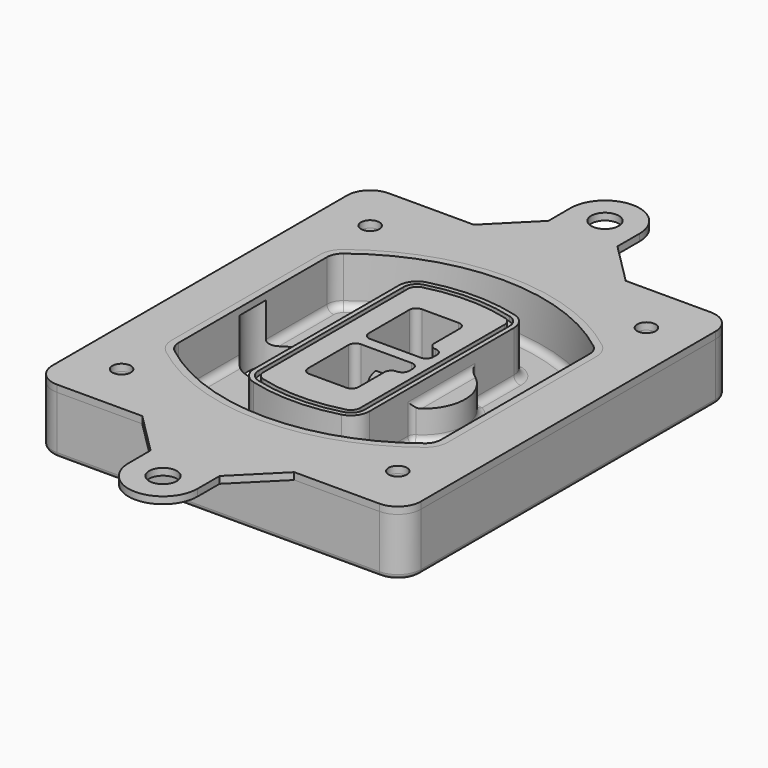
from build123d import *

# Parameters (mm, degrees)
F0_R      = 4
F1_DEPTH  = 25
F2_DEPTH  = 3
F3_DEPTH  = 18
F5_DEPTH  = 21
F6_DEPTH  = 2
F8_DEPTH  = 20
F9_DEPTH  = 16
F10_DEPTH = 25
F7_R      = 6
F7_R_2    = 4
F11_DEPTH = 6
F13_DEPTH = 9
F14_R     = 3
F15_R     = 2
F16_R     = 6
F16_R_2   = 4
F17_DEPTH = 3


with BuildPart() as f1:
    # F0 (on Top) → F1 (new body)
    with BuildSketch(Plane.XY):
        with BuildLine():
            ThreePointArc((-80, -80), (-77.0710678119, -87.0710678119), (-70, -90))
            Line((-70, -90), (70, -90))
            ThreePointArc((70, -90), (77.0710678119, -87.0710678119), (80, -80))
            Line((80, -80), (80, 80))
            ThreePointArc((80, 80), (77.0710678119, 87.0710678119), (70, 90))
            Line((70, 90), (-70, 90))
            ThreePointArc((-70, 90), (-77.0710678119, 87.0710678119), (-80, 80))
            Line((-80, 80), (-80, -80))
        make_face()
        with Locations((-60, -67.5)):
            Circle(F0_R, mode=Mode.SUBTRACT)
        with Locations((60, -67.5)):
            Circle(F0_R, mode=Mode.SUBTRACT)
        with Locations((-60, 67.5)):
            Circle(F0_R, mode=Mode.SUBTRACT)
        with BuildLine():
            ThreePointArc((-64, 40.2934422872), (-62.5820384798, 46.4328484224), (-58.6153846154, 51.3286200352))
            ThreePointArc((-58.6153846154, 51.3286200352), (0, 71.5), (58.6153846154, 51.3286200352))
            ThreePointArc((58.6153846154, 51.3286200352), (62.5820384798, 46.4328484224), (64, 40.2934422872))
            Line((64, 40.2934422872), (64, -40.2934422872))
            ThreePointArc((64, -40.2934422872), (62.5820384798, -46.4328484224), (58.6153846154, -51.3286200352))
            ThreePointArc((58.6153846154, -51.3286200352), (0, -71.5), (-58.6153846154, -51.3286200352))
            ThreePointArc((-58.6153846154, -51.3286200352), (-62.5820384798, -46.4328484224), (-64, -40.2934422872))
            Line((-64, -40.2934422872), (-64, 40.2934422872))
        make_face(mode=Mode.SUBTRACT)
        with Locations((60, 67.5)):
            Circle(F0_R, mode=Mode.SUBTRACT)
        with BuildLine():
            ThreePointArc((58.6153846154, 51.3286200352), (0, 71.5), (-58.6153846154, 51.3286200352))
            ThreePointArc((-58.6153846154, 51.3286200352), (-62.5820384798, 46.4328484224), (-64, 40.2934422872))
            Line((-64, 40.2934422872), (-64, -40.2934422872))
            ThreePointArc((-64, -40.2934422872), (-62.5820384798, -46.4328484224), (-58.6153846154, -51.3286200352))
            ThreePointArc((-58.6153846154, -51.3286200352), (0, -71.5), (58.6153846154, -51.3286200352))
            ThreePointArc((58.6153846154, -51.3286200352), (62.5820384798, -46.4328484224), (64, -40.2934422872))
            Line((64, -40.2934422872), (64, 40.2934422872))
            ThreePointArc((64, 40.2934422872), (62.5820384798, 46.4328484224), (58.6153846154, 51.3286200352))
        make_face()
        with BuildLine():
            Line((-60, -40.2934422872), (-60, 40.2934422872))
            ThreePointArc((-60, 40.2934422872), (-58.9871703427, 44.6787323838), (-56.1538461538, 48.1757121072))
            ThreePointArc((-56.1538461538, 48.1757121072), (0, 67.5), (56.1538461538, 48.1757121072))
            ThreePointArc((56.1538461538, 48.1757121072), (58.9871703427, 44.6787323838), (60, 40.2934422872))
            Line((60, 40.2934422872), (60, -40.2934422872))
            ThreePointArc((60, -40.2934422872), (58.9871703427, -44.6787323838), (56.1538461538, -48.1757121072))
            ThreePointArc((56.1538461538, -48.1757121072), (0, -67.5), (-56.1538461538, -48.1757121072))
            ThreePointArc((-56.1538461538, -48.1757121072), (-58.9871703427, -44.6787323838), (-60, -40.2934422872))
        make_face(mode=Mode.SUBTRACT)
        with BuildLine():
            ThreePointArc((-56.1538461538, 48.1757121072), (-58.9871703427, 44.6787323838), (-60, 40.2934422872))
            Line((-60, 40.2934422872), (-60, -40.2934422872))
            ThreePointArc((-60, -40.2934422872), (-58.9871703427, -44.6787323838), (-56.1538461538, -48.1757121072))
            ThreePointArc((-56.1538461538, -48.1757121072), (0, -67.5), (56.1538461538, -48.1757121072))
            ThreePointArc((56.1538461538, -48.1757121072), (58.9871703427, -44.6787323838), (60, -40.2934422872))
            Line((60, -40.2934422872), (60, 40.2934422872))
            ThreePointArc((60, 40.2934422872), (58.9871703427, 44.6787323838), (56.1538461538, 48.1757121072))
            ThreePointArc((56.1538461538, 48.1757121072), (0, 67.5), (-56.1538461538, 48.1757121072))
        make_face()
        with BuildLine():
            ThreePointArc((54.3076923077, 45.8110311612), (56.2910192399, 43.3631453548), (57, 40.2934422872))
            Line((57, 40.2934422872), (57, -40.2934422872))
            ThreePointArc((57, -40.2934422872), (56.2910192399, -43.3631453548), (54.3076923077, -45.8110311612))
            ThreePointArc((54.3076923077, -45.8110311612), (0, -64.5), (-54.3076923077, -45.8110311612))
            ThreePointArc((-54.3076923077, -45.8110311612), (-56.2910192399, -43.3631453548), (-57, -40.2934422872))
            Line((-57, -40.2934422872), (-57, 40.2934422872))
            ThreePointArc((-57, 40.2934422872), (-56.2910192399, 43.3631453548), (-54.3076923077, 45.8110311612))
            ThreePointArc((-54.3076923077, 45.8110311612), (0, 64.5), (54.3076923077, 45.8110311612))
        make_face(mode=Mode.SUBTRACT)
        with BuildLine():
            Line((57, -40.2934422872), (57, 40.2934422872))
            ThreePointArc((57, 40.2934422872), (56.2910192399, 43.3631453548), (54.3076923077, 45.8110311612))
            ThreePointArc((54.3076923077, 45.8110311612), (0, 64.5), (-54.3076923077, 45.8110311612))
            ThreePointArc((-54.3076923077, 45.8110311612), (-56.2910192399, 43.3631453548), (-57, 40.2934422872))
            Line((-57, 40.2934422872), (-57, -40.2934422872))
            ThreePointArc((-57, -40.2934422872), (-56.2910192399, -43.3631453548), (-54.3076923077, -45.8110311612))
            ThreePointArc((-54.3076923077, -45.8110311612), (0, -64.5), (54.3076923077, -45.8110311612))
            ThreePointArc((54.3076923077, -45.8110311612), (56.2910192399, -43.3631453548), (57, -40.2934422872))
        make_face()
    extrude(amount=-F1_DEPTH)

    # F0 (on Top) → F2 (join)
    with BuildSketch(Plane.XY):
        with BuildLine():
            ThreePointArc((-56.1538461538, 48.1757121072), (-58.9871703427, 44.6787323838), (-60, 40.2934422872))
            Line((-60, 40.2934422872), (-60, -40.2934422872))
            ThreePointArc((-60, -40.2934422872), (-58.9871703427, -44.6787323838), (-56.1538461538, -48.1757121072))
            ThreePointArc((-56.1538461538, -48.1757121072), (0, -67.5), (56.1538461538, -48.1757121072))
            ThreePointArc((56.1538461538, -48.1757121072), (58.9871703427, -44.6787323838), (60, -40.2934422872))
            Line((60, -40.2934422872), (60, 40.2934422872))
            ThreePointArc((60, 40.2934422872), (58.9871703427, 44.6787323838), (56.1538461538, 48.1757121072))
            ThreePointArc((56.1538461538, 48.1757121072), (0, 67.5), (-56.1538461538, 48.1757121072))
        make_face()
        with BuildLine():
            ThreePointArc((54.3076923077, 45.8110311612), (56.2910192399, 43.3631453548), (57, 40.2934422872))
            Line((57, 40.2934422872), (57, -40.2934422872))
            ThreePointArc((57, -40.2934422872), (56.2910192399, -43.3631453548), (54.3076923077, -45.8110311612))
            ThreePointArc((54.3076923077, -45.8110311612), (0, -64.5), (-54.3076923077, -45.8110311612))
            ThreePointArc((-54.3076923077, -45.8110311612), (-56.2910192399, -43.3631453548), (-57, -40.2934422872))
            Line((-57, -40.2934422872), (-57, 40.2934422872))
            ThreePointArc((-57, 40.2934422872), (-56.2910192399, 43.3631453548), (-54.3076923077, 45.8110311612))
            ThreePointArc((-54.3076923077, 45.8110311612), (0, 64.5), (54.3076923077, 45.8110311612))
        make_face(mode=Mode.SUBTRACT)
    extrude(amount=F2_DEPTH)

    # F0 (on Top) → F3 (cut)
    with BuildSketch(Plane.XY):
        with BuildLine():
            Line((57, -40.2934422872), (57, 40.2934422872))
            ThreePointArc((57, 40.2934422872), (56.2910192399, 43.3631453548), (54.3076923077, 45.8110311612))
            ThreePointArc((54.3076923077, 45.8110311612), (0, 64.5), (-54.3076923077, 45.8110311612))
            ThreePointArc((-54.3076923077, 45.8110311612), (-56.2910192399, 43.3631453548), (-57, 40.2934422872))
            Line((-57, 40.2934422872), (-57, -40.2934422872))
            ThreePointArc((-57, -40.2934422872), (-56.2910192399, -43.3631453548), (-54.3076923077, -45.8110311612))
            ThreePointArc((-54.3076923077, -45.8110311612), (0, -64.5), (54.3076923077, -45.8110311612))
            ThreePointArc((54.3076923077, -45.8110311612), (56.2910192399, -43.3631453548), (57, -40.2934422872))
        make_face()
    extrude(amount=-F3_DEPTH, mode=Mode.SUBTRACT)

    # F4 (on face) → F5 (join, through all)
    with BuildSketch(Plane.XY.offset(3)):
        with BuildLine():
            ThreePointArc((-25, -39.2465276821), (-23.3511545998, -44.1109737193), (-19.0842911877, -46.9702398883))
            ThreePointArc((-19.0842911877, -46.9702398883), (0, -49.5), (19.0842911877, -46.9702398883))
            ThreePointArc((19.0842911877, -46.9702398883), (23.3511545998, -44.1109737193), (25, -39.2465276821))
            Line((25, -39.2465276821), (25, 39.2465276821))
            ThreePointArc((25, 39.2465276821), (23.3511545998, 44.1109737193), (19.0842911877, 46.9702398883))
            ThreePointArc((19.0842911877, 46.9702398883), (0, 49.5), (-19.0842911877, 46.9702398883))
            ThreePointArc((-19.0842911877, 46.9702398883), (-23.3511545998, 44.1109737193), (-25, 39.2465276821))
            Line((-25, 39.2465276821), (-25, -39.2465276821))
        make_face()
        with BuildLine():
            ThreePointArc((18.5632183908, 45.0393118368), (21.7633659499, 42.89486221), (23, 39.2465276821))
            Line((23, 39.2465276821), (23, -39.2465276821))
            ThreePointArc((23, -39.2465276821), (21.7633659499, -42.89486221), (18.5632183908, -45.0393118368))
            ThreePointArc((18.5632183908, -45.0393118368), (0, -47.5), (-18.5632183908, -45.0393118368))
            ThreePointArc((-18.5632183908, -45.0393118368), (-21.7633659499, -42.89486221), (-23, -39.2465276821))
            Line((-23, -39.2465276821), (-23, 39.2465276821))
            ThreePointArc((-23, 39.2465276821), (-21.7633659499, 42.89486221), (-18.5632183908, 45.0393118368))
            ThreePointArc((-18.5632183908, 45.0393118368), (0, 47.5), (18.5632183908, 45.0393118368))
        make_face(mode=Mode.SUBTRACT)
        with BuildLine():
            Line((23, -39.2465276821), (23, 39.2465276821))
            ThreePointArc((23, 39.2465276821), (21.7633659499, 42.89486221), (18.5632183908, 45.0393118368))
            ThreePointArc((18.5632183908, 45.0393118368), (0, 47.5), (-18.5632183908, 45.0393118368))
            ThreePointArc((-18.5632183908, 45.0393118368), (-21.7633659499, 42.89486221), (-23, 39.2465276821))
            Line((-23, 39.2465276821), (-23, -39.2465276821))
            ThreePointArc((-23, -39.2465276821), (-21.7633659499, -42.89486221), (-18.5632183908, -45.0393118368))
            ThreePointArc((-18.5632183908, -45.0393118368), (0, -47.5), (18.5632183908, -45.0393118368))
            ThreePointArc((18.5632183908, -45.0393118368), (21.7633659499, -42.89486221), (23, -39.2465276821))
        make_face()
        with BuildLine():
            ThreePointArc((18.0421455939, 43.1083837852), (20.1755772999, 41.6787507007), (21, 39.2465276821))
            Line((21, 39.2465276821), (21, -39.2465276821))
            ThreePointArc((21, -39.2465276821), (20.1755772999, -41.6787507007), (18.0421455939, -43.1083837852))
            ThreePointArc((18.0421455939, -43.1083837852), (0, -45.5), (-18.0421455939, -43.1083837852))
            ThreePointArc((-18.0421455939, -43.1083837852), (-20.1755772999, -41.6787507007), (-21, -39.2465276821))
            Line((-21, -39.2465276821), (-21, 39.2465276821))
            ThreePointArc((-21, 39.2465276821), (-20.1755772999, 41.6787507007), (-18.0421455939, 43.1083837852))
            ThreePointArc((-18.0421455939, 43.1083837852), (0, 45.5), (18.0421455939, 43.1083837852))
        make_face(mode=Mode.SUBTRACT)
        with BuildLine():
            Line((21, -39.2465276821), (21, 39.2465276821))
            ThreePointArc((21, 39.2465276821), (20.1755772999, 41.6787507007), (18.0421455939, 43.1083837852))
            ThreePointArc((18.0421455939, 43.1083837852), (0, 45.5), (-18.0421455939, 43.1083837852))
            ThreePointArc((-18.0421455939, 43.1083837852), (-20.1755772999, 41.6787507007), (-21, 39.2465276821))
            Line((-21, 39.2465276821), (-21, -39.2465276821))
            ThreePointArc((-21, -39.2465276821), (-20.1755772999, -41.6787507007), (-18.0421455939, -43.1083837852))
            ThreePointArc((-18.0421455939, -43.1083837852), (0, -45.5), (18.0421455939, -43.1083837852))
            ThreePointArc((18.0421455939, -43.1083837852), (20.1755772999, -41.6787507007), (21, -39.2465276821))
        make_face()
        with BuildLine():
            Line((-8, -2.5), (14, -2.5))
            ThreePointArc((14, -2.5), (16.1213203436, -3.3786796564), (17, -5.5))
            Line((17, -5.5), (17, -7.5))
            ThreePointArc((17, -7.5), (16.1213203436, -9.6213203436), (14, -10.5))
            ThreePointArc((14, -10.5), (11.8786796564, -11.3786796564), (11, -13.5))
            Line((11, -13.5), (11, -27.5))
            ThreePointArc((11, -27.5), (10.1213203436, -29.6213203436), (8, -30.5))
            Line((8, -30.5), (-8, -30.5))
            ThreePointArc((-8, -30.5), (-10.1213203436, -29.6213203436), (-11, -27.5))
            Line((-11, -27.5), (-11, -5.5))
            ThreePointArc((-11, -5.5), (-10.1213203436, -3.3786796564), (-8, -2.5))
        make_face(mode=Mode.SUBTRACT)
        with BuildLine():
            ThreePointArc((-8, 2.5), (-10.1213203436, 3.3786796564), (-11, 5.5))
            Line((-11, 5.5), (-11, 27.5))
            ThreePointArc((-11, 27.5), (-10.1213203436, 29.6213203436), (-8, 30.5))
            Line((-8, 30.5), (8, 30.5))
            ThreePointArc((8, 30.5), (10.1213203436, 29.6213203436), (11, 27.5))
            Line((11, 27.5), (11, 13.5))
            ThreePointArc((11, 13.5), (11.8786796564, 11.3786796564), (14, 10.5))
            ThreePointArc((14, 10.5), (16.1213203436, 9.6213203436), (17, 7.5))
            Line((17, 7.5), (17, 5.5))
            ThreePointArc((17, 5.5), (16.1213203436, 3.3786796564), (14, 2.5))
            Line((14, 2.5), (-8, 2.5))
        make_face(mode=Mode.SUBTRACT)
    extrude(amount=-F5_DEPTH)

    # F4 (on face) → F6 (cut)
    with BuildSketch(Plane.XY.offset(3)):
        with BuildLine():
            Line((23, -39.2465276821), (23, 39.2465276821))
            ThreePointArc((23, 39.2465276821), (21.7633659499, 42.89486221), (18.5632183908, 45.0393118368))
            ThreePointArc((18.5632183908, 45.0393118368), (0, 47.5), (-18.5632183908, 45.0393118368))
            ThreePointArc((-18.5632183908, 45.0393118368), (-21.7633659499, 42.89486221), (-23, 39.2465276821))
            Line((-23, 39.2465276821), (-23, -39.2465276821))
            ThreePointArc((-23, -39.2465276821), (-21.7633659499, -42.89486221), (-18.5632183908, -45.0393118368))
            ThreePointArc((-18.5632183908, -45.0393118368), (0, -47.5), (18.5632183908, -45.0393118368))
            ThreePointArc((18.5632183908, -45.0393118368), (21.7633659499, -42.89486221), (23, -39.2465276821))
        make_face()
        with BuildLine():
            ThreePointArc((18.0421455939, 43.1083837852), (20.1755772999, 41.6787507007), (21, 39.2465276821))
            Line((21, 39.2465276821), (21, -39.2465276821))
            ThreePointArc((21, -39.2465276821), (20.1755772999, -41.6787507007), (18.0421455939, -43.1083837852))
            ThreePointArc((18.0421455939, -43.1083837852), (0, -45.5), (-18.0421455939, -43.1083837852))
            ThreePointArc((-18.0421455939, -43.1083837852), (-20.1755772999, -41.6787507007), (-21, -39.2465276821))
            Line((-21, -39.2465276821), (-21, 39.2465276821))
            ThreePointArc((-21, 39.2465276821), (-20.1755772999, 41.6787507007), (-18.0421455939, 43.1083837852))
            ThreePointArc((-18.0421455939, 43.1083837852), (0, 45.5), (18.0421455939, 43.1083837852))
        make_face(mode=Mode.SUBTRACT)
    extrude(amount=-F6_DEPTH, mode=Mode.SUBTRACT)

    # F7 (on face) → F8 (join)
    with BuildSketch(Plane(origin=(0, 0, -25), x_dir=(1, 0, 0), z_dir=(0, 0, -1))):
        with BuildLine():
            ThreePointArc((3.28842436, 0), (16.7567035675, 13.4682792075), (30.224982775, 0))
            Line((30.224982775, 0), (35.224982775, 0))
            ThreePointArc((35.224982775, 0), (16.7567035675, 18.4682792075), (-1.71157564, 0))
            Line((-1.71157564, 0), (3.28842436, 0))
        make_face()
        with BuildLine():
            Line((3.28842436, 0), (30.224982775, 0))
            ThreePointArc((30.224982775, 0), (16.7567035675, 13.4682792075), (3.28842436, 0))
        make_face()
        with BuildLine():
            ThreePointArc((3.28842436, 0), (16.7567035675, -13.4682792075), (30.224982775, 0))
            Line((30.224982775, 0), (3.28842436, 0))
        make_face()
        with BuildLine():
            Line((35.224982775, 0), (30.224982775, 0))
            ThreePointArc((30.224982775, 0), (16.7567035675, -13.4682792075), (3.28842436, 0))
            Line((3.28842436, 0), (-1.71157564, 0))
            ThreePointArc((-1.71157564, 0), (16.7567035675, -18.4682792075), (35.224982775, 0))
        make_face()
    extrude(amount=-F8_DEPTH)

    # F7 (on face) → F9 (cut)
    with BuildSketch(Plane(origin=(0, 0, -25), x_dir=(1, 0, 0), z_dir=(0, 0, -1))):
        with BuildLine():
            Line((3.28842436, 0), (30.224982775, 0))
            ThreePointArc((30.224982775, 0), (16.7567035675, 13.4682792075), (3.28842436, 0))
        make_face()
        with BuildLine():
            ThreePointArc((3.28842436, 0), (16.7567035675, -13.4682792075), (30.224982775, 0))
            Line((30.224982775, 0), (3.28842436, 0))
        make_face()
    extrude(amount=-F9_DEPTH, mode=Mode.SUBTRACT)

    # F7 (on face) → F10 (cut)
    with BuildSketch(Plane(origin=(0, 0, -25), x_dir=(1, 0, 0), z_dir=(0, 0, -1))):
        with BuildLine():
            Line((-59.0318229325, 0), (-32.0952645175, 0))
            ThreePointArc((-32.0952645175, 0), (-45.563543725, 13.4682792075), (-59.0318229325, 0))
        make_face()
        with BuildLine():
            ThreePointArc((-59.0318229325, 0), (-45.563543725, -13.4682792075), (-32.0952645175, 0))
            Line((-32.0952645175, 0), (-59.0318229325, 0))
        make_face()
    extrude(amount=-F10_DEPTH, mode=Mode.SUBTRACT)

    # F7 (on face) → F11 (cut)
    with BuildSketch(Plane(origin=(0, 0, -25), x_dir=(1, 0, 0), z_dir=(0, 0, -1))):
        with Locations((60, -67.5)):
            Circle(F7_R)
        with Locations((60, -67.5)):
            Circle(F7_R_2, mode=Mode.SUBTRACT)
        with Locations((60, -67.5)):
            Circle(F7_R)
        with Locations((60, -67.5)):
            Circle(F7_R_2, mode=Mode.SUBTRACT)
        with Locations((-60, -67.5)):
            Circle(F7_R)
        with Locations((-60, -67.5)):
            Circle(F7_R_2, mode=Mode.SUBTRACT)
        with Locations((-60, -67.5)):
            Circle(F7_R)
        with Locations((-60, -67.5)):
            Circle(F7_R_2, mode=Mode.SUBTRACT)
        with Locations((-60, 67.5)):
            Circle(F7_R)
        with Locations((-60, 67.5)):
            Circle(F7_R_2, mode=Mode.SUBTRACT)
        with Locations((-60, 67.5)):
            Circle(F7_R)
        with Locations((-60, 67.5)):
            Circle(F7_R_2, mode=Mode.SUBTRACT)
        with Locations((60, 67.5)):
            Circle(F7_R)
        with Locations((60, 67.5)):
            Circle(F7_R_2, mode=Mode.SUBTRACT)
        with Locations((60, 67.5)):
            Circle(F7_R)
        with Locations((60, 67.5)):
            Circle(F7_R_2, mode=Mode.SUBTRACT)
    extrude(amount=-F11_DEPTH, mode=Mode.SUBTRACT)

    # F12 (on face) → F13 (cut, through all)
    with BuildSketch(Plane(origin=(0, 0, -9), x_dir=(1, 0, 0), z_dir=(0, 0, -1))):
        with BuildLine():
            Line((11, 13.5), (11, 17.5481537753))
            ThreePointArc((11, 17.5481537753), (2.5696536419, 11.8239143813), (-1.5415842455, 2.5))
            Line((-1.5415842455, 2.5), (3.5224848595, 2.5))
            ThreePointArc((3.5224848595, 2.5), (6.1857188154, 8.3455872281), (11.2536447004, 12.2927168648))
            ThreePointArc((11.2536447004, 12.2927168648), (11.0640958889, 12.8831798879), (11, 13.5))
        make_face()
        with BuildLine():
            ThreePointArc((11.2536447004, -12.2927168648), (6.1857188154, -8.3455872281), (3.5224848595, -2.5))
            Line((3.5224848595, -2.5), (-1.5415842455, -2.5))
            ThreePointArc((-1.5415842455, -2.5), (2.5696536419, -11.8239143813), (11, -17.5481537753))
            Line((11, -17.5481537753), (11, -13.5))
            ThreePointArc((11, -13.5), (11.0640958889, -12.8831798879), (11.2536447004, -12.2927168648))
        make_face()
        with BuildLine():
            ThreePointArc((11.2536447004, 12.2927168648), (6.1857188154, 8.3455872281), (3.5224848595, 2.5))
            Line((3.5224848595, 2.5), (14, 2.5))
            ThreePointArc((14, 2.5), (16.1213203436, 3.3786796564), (17, 5.5))
            Line((17, 5.5), (17, 7.5))
            ThreePointArc((17, 7.5), (16.1213203436, 9.6213203436), (14, 10.5))
            ThreePointArc((14, 10.5), (12.3601599782, 10.9878446101), (11.2536447004, 12.2927168648))
        make_face()
        with BuildLine():
            Line((14, -2.5), (3.5224848595, -2.5))
            ThreePointArc((3.5224848595, -2.5), (6.1857188154, -8.3455872281), (11.2536447004, -12.2927168648))
            ThreePointArc((11.2536447004, -12.2927168648), (12.3601599782, -10.9878446101), (14, -10.5))
            ThreePointArc((14, -10.5), (16.1213203436, -9.6213203436), (17, -7.5))
            Line((17, -7.5), (17, -5.5))
            ThreePointArc((17, -5.5), (16.1213203436, -3.3786796564), (14, -2.5))
        make_face()
    extrude(amount=F13_DEPTH, mode=Mode.SUBTRACT)

    # F14
    f14_edges = [f1.edges().sort_by_distance(p)[0] for p in [
        (-57, -23.703476, -18),
        (-57, 23.703476, -18),
        (25, 0, -5),
        (25, 16.526506, -11.5),
        (25, -16.526506, -11.5),
        (25, -27.886517, -18),
        (35.224983, 0, -18),
    ]]
    fillet(f14_edges, radius=F14_R)

    # F15
    f15_edges = [f1.edges().sort_by_distance(p)[0] for p in [
        (0, -90, -25),
    ]]
    fillet(f15_edges, radius=F15_R)


with BuildPart() as f17:
    # F16 (on face) → F17 (new body, through all)
    with BuildSketch(Plane.XY):
        with BuildLine():
            Line((33, -90), (-33, -90))
            Line((-33, -90), (-15, -108))
            Line((-15, -108), (-15, -120))
            ThreePointArc((-15, -120), (0, -135), (15, -120))
            Line((15, -120), (15, -108))
            Line((15, -108), (33, -90))
        make_face()
        with Locations((0, -120)):
            Circle(F16_R, mode=Mode.SUBTRACT)
        with BuildLine():
            Line((-15, 108), (-33, 90))
            Line((-33, 90), (33, 90))
            Line((33, 90), (15, 108))
            Line((15, 108), (15, 120))
            ThreePointArc((15, 120), (0, 135), (-15, 120))
            Line((-15, 120), (-15, 108))
        make_face()
        with Locations((0, 120)):
            Circle(F16_R, mode=Mode.SUBTRACT)
        with BuildLine():
            Line((33, 90), (-33, 90))
            Line((-33, 90), (-70, 90))
            ThreePointArc((-70, 90), (-77.0710678119, 87.0710678119), (-80, 80))
            Line((-80, 80), (-80, -80))
            ThreePointArc((-80, -80), (-77.0710678119, -87.0710678119), (-70, -90))
            Line((-70, -90), (-33, -90))
            Line((-33, -90), (33, -90))
            Line((33, -90), (70, -90))
            ThreePointArc((70, -90), (77.0710678119, -87.0710678119), (80, -80))
            Line((80, -80), (80, 80))
            ThreePointArc((80, 80), (77.0710678119, 87.0710678119), (70, 90))
            Line((70, 90), (33, 90))
        make_face()
        with Locations((-60, -67.5)):
            Circle(F16_R_2, mode=Mode.SUBTRACT)
        with Locations((60, -67.5)):
            Circle(F16_R_2, mode=Mode.SUBTRACT)
        with Locations((-60, 67.5)):
            Circle(F16_R_2, mode=Mode.SUBTRACT)
        with BuildLine():
            ThreePointArc((-60, 40.2934422872), (-58.9871703427, 44.6787323838), (-56.1538461538, 48.1757121072))
            ThreePointArc((-56.1538461538, 48.1757121072), (0, 67.5), (56.1538461538, 48.1757121072))
            ThreePointArc((56.1538461538, 48.1757121072), (58.9871703427, 44.6787323838), (60, 40.2934422872))
            Line((60, 40.2934422872), (60, -40.2934422872))
            ThreePointArc((60, -40.2934422872), (58.9871703427, -44.6787323838), (56.1538461538, -48.1757121072))
            ThreePointArc((56.1538461538, -48.1757121072), (0, -67.5), (-56.1538461538, -48.1757121072))
            ThreePointArc((-56.1538461538, -48.1757121072), (-58.9871703427, -44.6787323838), (-60, -40.2934422872))
            Line((-60, -40.2934422872), (-60, 40.2934422872))
        make_face(mode=Mode.SUBTRACT)
        with Locations((60, 67.5)):
            Circle(F16_R_2, mode=Mode.SUBTRACT)
    extrude(amount=F17_DEPTH)


solid = Compound([f1.part, f17.part])
